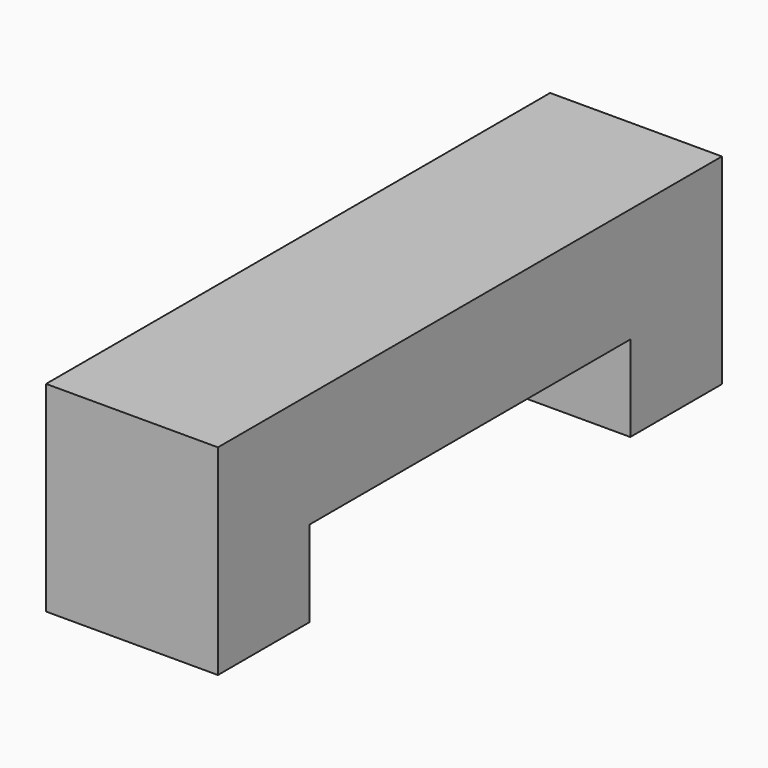
from build123d import *

# Parameters (mm, degrees)
BOX025_W     = 3
BOX025_H     = 7
BOX025_DEPTH = 2
BOX027_W     = 3
BOX027_H     = 2
BOX027_DEPTH = 3.5
BOX026_W     = 3
BOX026_H     = 2
BOX026_DEPTH = 3.5


with BuildPart() as obj1:
    # Box025 → Box025 (new body)
    with BuildSketch(Plane(origin=(17.5, 39, 10), x_dir=(1, 0, 0), z_dir=(0, 0, 1))):
        with Locations((1.5, 3.5)):
            Rectangle(BOX025_W, BOX025_H)
    extrude(amount=BOX025_DEPTH)


with BuildPart() as obj2:
    # Box027 → Box027 (new body)
    with BuildSketch(Plane(origin=(17.5, 46, 8.5), x_dir=(1, 0, 0), z_dir=(0, 0, 1))):
        with Locations((1.5, 1)):
            Rectangle(BOX027_W, BOX027_H)
    extrude(amount=BOX027_DEPTH)


with BuildPart() as obj3:
    # Box026 → Box026 (new body)
    with BuildSketch(Plane(origin=(17.5, 37, 8.5), x_dir=(1, 0, 0), z_dir=(0, 0, 1))):
        with Locations((1.5, 1)):
            Rectangle(BOX026_W, BOX026_H)
    extrude(amount=BOX026_DEPTH)

    # Fusion027: union obj1, obj2
    add(obj1.part)
    add(obj2.part)


solid = obj3.part
